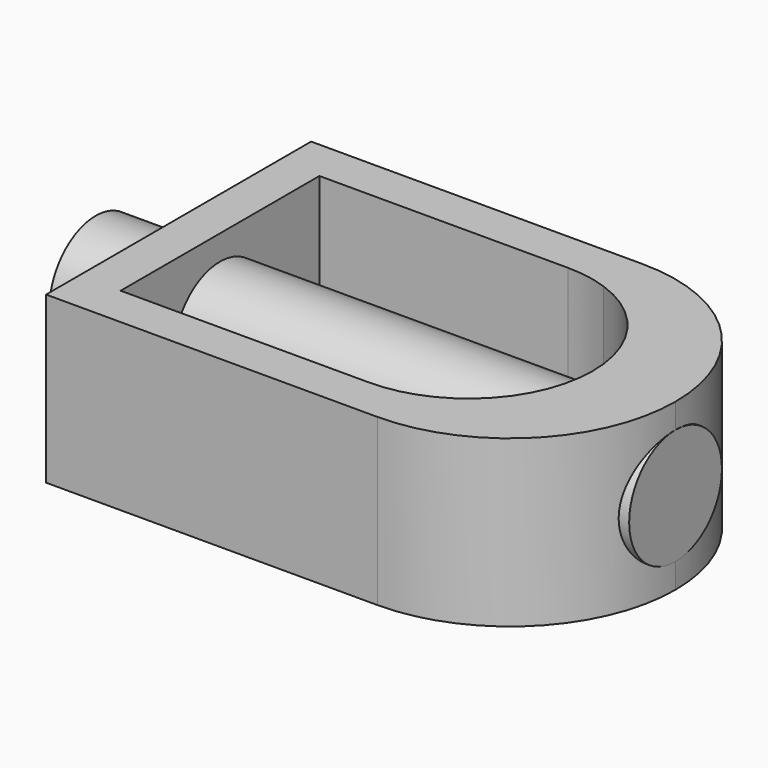
from build123d import *

# Parameters (mm, degrees)
F1_DEPTH      = 10
F3_R          = 3.5
F4_DEPTH      = 30
F4_DEPTH_BACK = 5


with BuildPart() as f1:
    # F0 (on Top) → F1 (new body)
    with BuildSketch(Plane.XY):
        with BuildLine():
            ThreePointArc((3.3856217223, 7.5), (6.4644660941, 9.3541434669), (10, 10))
            Line((10, 10), (-10, 10))
            Line((-10, 10), (-10, -10))
            Line((-10, -10), (10, -10))
            ThreePointArc((10, -10), (6.4644660941, -9.3541434669), (3.3856217223, -7.5))
            Line((3.3856217223, -7.5), (-7.5, -7.5))
            Line((-7.5, -7.5), (-7.5, 7.5))
            Line((-7.5, 7.5), (3.3856217223, 7.5))
        make_face()
        with BuildLine():
            ThreePointArc((20, 0), (17.0710678119, 7.0710678119), (10, 10))
            Line((10, 10), (10, 7.0710678119))
            ThreePointArc((10, 7.0710678119), (13.623724357, 4.3301270189), (15, 0))
            ThreePointArc((15, 0), (13.623724357, -4.3301270189), (10, -7.0710678119))
            Line((10, -7.0710678119), (10, -10))
            ThreePointArc((10, -10), (17.0710678119, -7.0710678119), (20, 0))
        make_face()
        with BuildLine():
            Line((10, 7.0710678119), (10, 10))
            ThreePointArc((10, 10), (6.4644660941, 9.3541434669), (3.3856217223, 7.5))
            Line((3.3856217223, 7.5), (7.5, 7.5))
            ThreePointArc((7.5, 7.5), (8.7682648404, 7.3919891974), (10, 7.0710678119))
        make_face()
        with BuildLine():
            Line((10, -10), (10, -7.0710678119))
            ThreePointArc((10, -7.0710678119), (8.7682648404, -7.3919891974), (7.5, -7.5))
            Line((7.5, -7.5), (3.3856217223, -7.5))
            ThreePointArc((3.3856217223, -7.5), (6.4644660941, -9.3541434669), (10, -10))
        make_face()
    extrude(amount=F1_DEPTH)


with BuildPart() as f1_1:
    # F2: moved
    add(f1.part.moved(Location((0, 0, -5))))

    # F3 (on face) → F4 (join, two sides)
    with BuildSketch(Plane(origin=(-10, 0, 0), x_dir=(0, -1, 0), z_dir=(-1, 0, 0))) as f4_sk:
        Circle(F3_R)
    extrude(amount=-F4_DEPTH)
    extrude(f4_sk.sketch, amount=F4_DEPTH_BACK)


solid = f1_1.part
